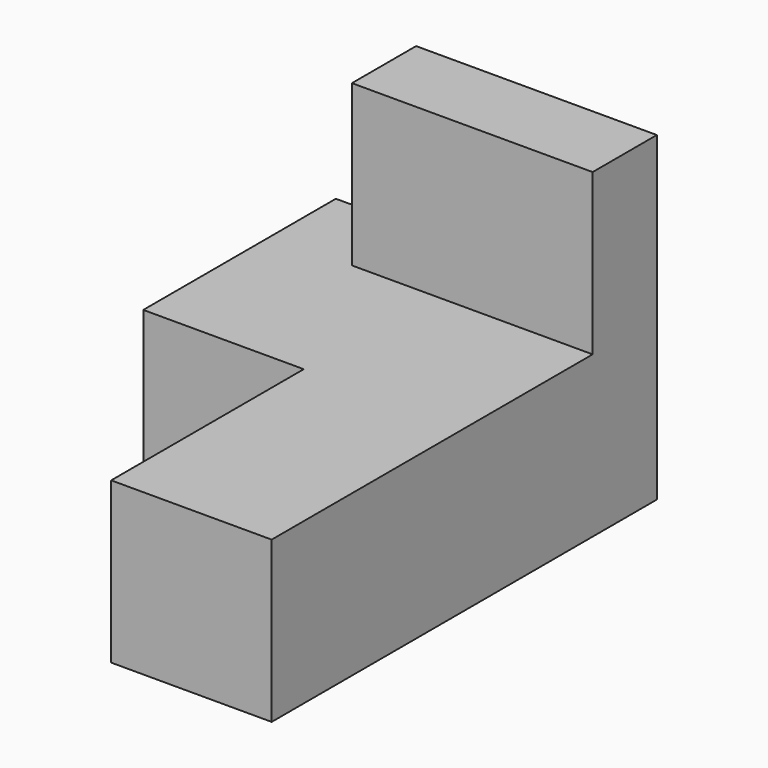
from build123d import *

# Parameters (mm, degrees)
F0_W     = 25.4
F0_H     = 25.4
F1_DEPTH = 19.05
F2_W     = 12.7
F2_H     = 19.05
F3_DEPTH = 53.64516
F4_W     = 31.75
F4_H     = 12.7
F5_DEPTH = 44.72539
F6_W     = 6.35
F6_H     = 12.7
F7_DEPTH = 19.051


with BuildPart() as f1:
    # F0 (on Front) → F1 (new body, symmetric)
    with BuildSketch(Plane.XZ):
        with Locations((12.7, 12.7)):
            Rectangle(F0_W, F0_H)
    extrude(amount=F1_DEPTH, both=True)

    # F2 (on Top) → F3 (cut, symmetric)
    with BuildSketch(Plane.XY):
        with Locations((6.35, -9.525)):
            Rectangle(F2_W, F2_H)
    extrude(amount=F3_DEPTH, both=True, mode=Mode.SUBTRACT)

    # F4 (on Right) → F5 (cut)
    with BuildSketch(Plane.YZ):
        with Locations((-3.175, 19.05)):
            Rectangle(F4_W, F4_H)
    extrude(amount=F5_DEPTH, mode=Mode.SUBTRACT)

    # F6 (on Front) → F7 (cut, through all)
    with BuildSketch(Plane.XZ):
        with Locations((3.175, 19.05)):
            Rectangle(F6_W, F6_H)
    extrude(amount=-F7_DEPTH, mode=Mode.SUBTRACT)


solid = f1.part
